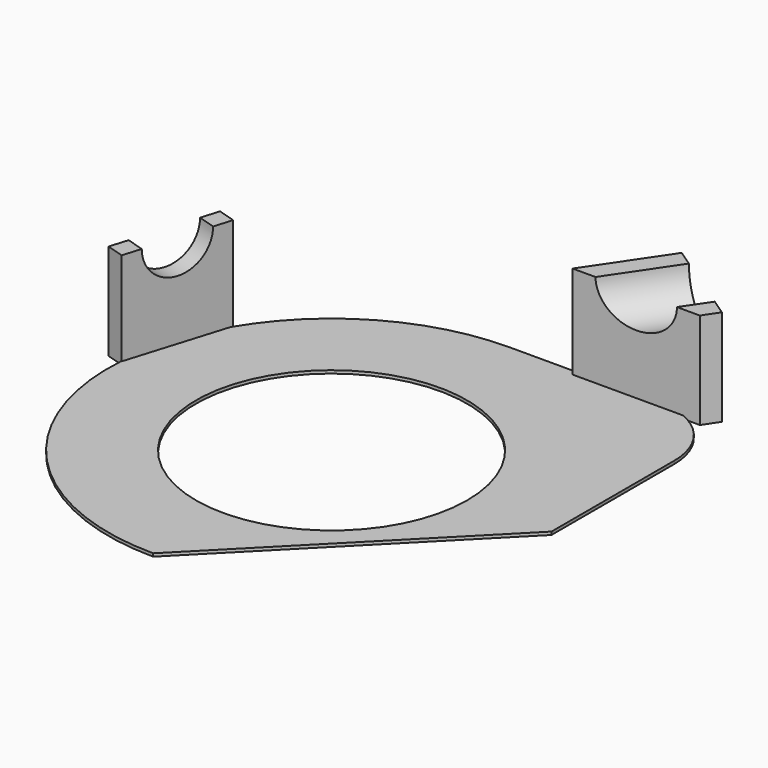
from build123d import *

# Parameters (mm, degrees)
SKETCH001_R       = 45
PAD_DEPTH         = 1
PAD003_DEPTH      = 31
PAD003_DEPTH_BACK = 1
PAD004_DEPTH      = 31
PAD004_DEPTH_BACK = 1
SKETCH026_R       = 11.2
POCKET_DEPTH      = 169.3567157682
SKETCH027_R       = 11.2
POCKET001_DEPTH   = 207.6737429392


with BuildPart() as part:
    # Sketch001 → Pad (new body)
    with BuildSketch(Plane.XY):
        with BuildLine():
            Line((50, 74), (0, 74))
            ThreePointArc((0, 74), (-74.0000001202, 0), (0, -74))
            Line((73, 0), (0, -74))
            Line((73, 51), (73, 0))
            ThreePointArc((73, 51), (66.2634559673, 67.2634559673), (50, 74))
        make_face()
        Circle(SKETCH001_R, mode=Mode.SUBTRACT)
    extrude(amount=-PAD_DEPTH)

    # Sketch → Pad003 (new body, two sides)
    with BuildSketch(Plane.XY) as pad003_sk:
        Polygon((22.252644507, 72.2162499408), (64.4702727046, 72.2162499408), (67.8254301255, 77.1904753762), (38.809115086, 96.7622269976), align=None)
    extrude(amount=PAD003_DEPTH)
    extrude(pad003_sk.sketch, amount=-PAD003_DEPTH_BACK)

    # Sketch025 → Pad004 (new body, two sides)
    with BuildSketch(Plane.XY) as pad004_sk:
        Polygon((-69.1718947306, 40.2246535265), (-79.4049043959, 6.7539870678), (-73.6670758601, 4.9997568394), (-63.4340661948, 38.4704232981), align=None)
    extrude(amount=PAD004_DEPTH)
    extrude(pad004_sk.sketch, amount=-PAD004_DEPTH_BACK)

    # Sketch026 → Pocket (cut, through all)
    with BuildSketch(Plane(origin=(-74.5056676119, 22.7786685315, 0), x_dir=(-0.2923717047, -0.956304756, 0), z_dir=(-0.956304756, 0.2923717047, 0))):
        with Locations((-0.743122693, 31)):
            Circle(SKETCH026_R)
    extrude(amount=-POCKET_DEPTH, mode=Mode.SUBTRACT)

    # Sketch027 → Pocket001 (cut, through all)
    with BuildSketch(Plane(origin=(56.9936696471, 84.4965900712, 0), x_dir=(-0.8290375726, 0.5591929035, 0), z_dir=(0.5591929035, 0.8290375726, 0))):
        with Locations((4.4345360972, 31)):
            Circle(SKETCH027_R)
    extrude(amount=-POCKET001_DEPTH, mode=Mode.SUBTRACT)


solid = part.part
